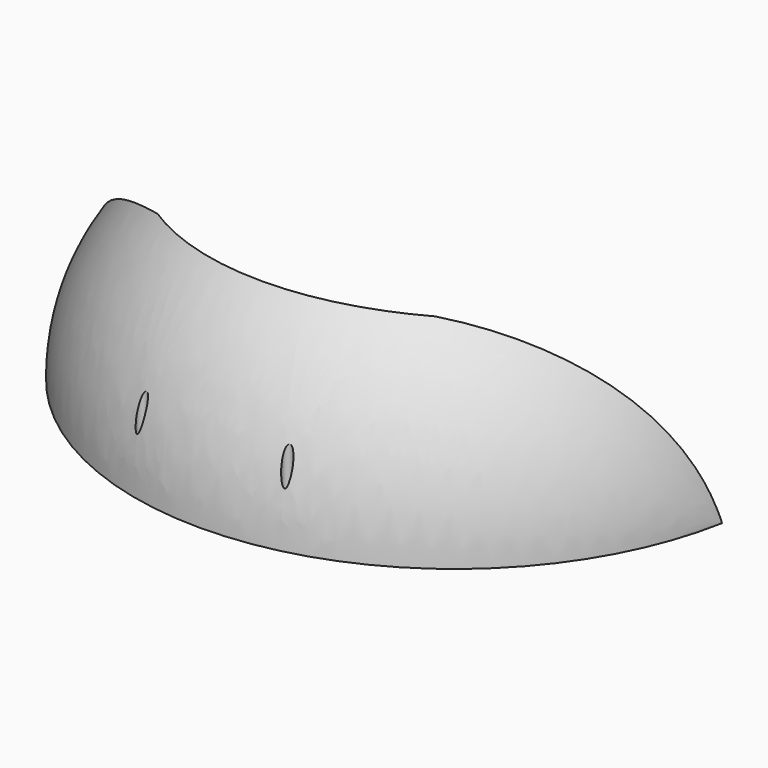
from build123d import *

# Parameters (mm, degrees)
PAD_DEPTH        = 55
REVOLUTION_ANGLE = -90
SKETCH002_R      = 1
POCKET_DEPTH     = 38.367652


with BuildPart() as pad:
    # Sketch001 → Pad (new body)
    with BuildSketch(Plane.XY):
        with BuildLine():
            ThreePointArc((-28.678822, -28.957602), (0, -38), (28.678822, -28.957602))
            ThreePointArc((28.678822, -28.957602), (47.930354, -15.847158), (65, 0))
            Line((-65, 0), (65, 0))
            ThreePointArc((-65, 0), (-48.373276, -16.40271), (-28.678822, -28.957602))
        make_face()
    extrude(amount=PAD_DEPTH)


with BuildPart() as holesscrews:
    # Sketch → Revolution (revolve)
    with BuildSketch(Plane.XY):
        with BuildLine():
            ThreePointArc((-59.808026, 0), (0, -49), (59.808026, 0))
            Line((59.808026, 0), (64.899923, 0))
            ThreePointArc((-64.899923, 0), (0, -54), (64.899923, 0))
            Line((-64.899923, 0), (-59.808026, 0))
        make_face()
    revolve(axis=Axis((0, 0, 0), (1, 0, 0)), revolution_arc=REVOLUTION_ANGLE)

    # Cut: cut Pad
    add(pad.part, mode=Mode.SUBTRACT)

    # Sketch002 → Pocket (cut, through all)
    with BuildSketch(Plane(origin=(0, 0, 0), x_dir=(1, 0, 0), z_dir=(0, 0, -1))):
        with Locations((15.028955, 50.094116)):
            Circle(SKETCH002_R)
        with Locations((-15.028955, 50.094116)):
            Circle(SKETCH002_R)
    extrude(amount=-POCKET_DEPTH, mode=Mode.SUBTRACT)


solid = holesscrews.part
